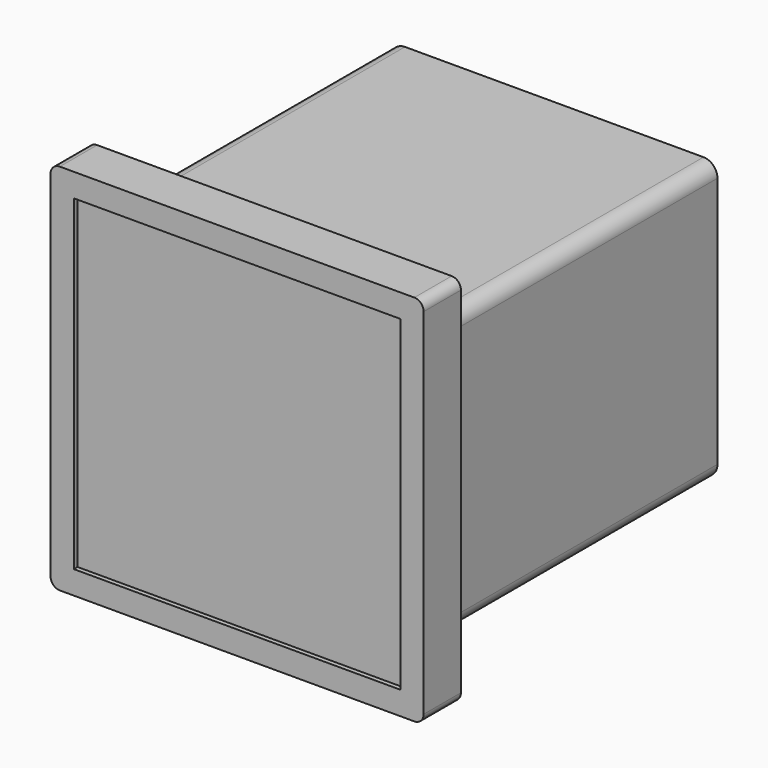
from build123d import *

# Parameters (mm, degrees)
F0_W     = 80
F0_H     = 80
F1_DEPTH = 10
F2_R     = 2
F3_W     = 70
F3_H     = 70
F4_DEPTH = 1
F5_W     = 70
F5_H     = 60
F6_DEPTH = 75
F7_R     = 3


with BuildPart() as f1:
    # F0 (on Front) → F1 (new body)
    with BuildSketch(Plane.XZ):
        Rectangle(F0_W, F0_H)
    extrude(amount=F1_DEPTH)

    # F2
    f2_edges = [f1.edges().sort_by_distance(p)[0] for p in [
        (-40, -5, 40),
        (40, -5, 40),
        (40, -5, -40),
        (-40, -5, -40),
    ]]
    fillet(f2_edges, radius=F2_R)

    # F3 (on face) → F4 (cut)
    with BuildSketch(Plane.XZ.offset(10)):
        Rectangle(F3_W, F3_H)
    extrude(amount=-F4_DEPTH, mode=Mode.SUBTRACT)

    # F5 (on face) → F6 (join)
    with BuildSketch(Plane(origin=(0, 0, 0), x_dir=(-1, 0, 0), z_dir=(0, 1, 0))):
        Rectangle(F5_W, F5_H)
    extrude(amount=F6_DEPTH)

    # F7
    f7_edges = [f1.edges().sort_by_distance(p)[0] for p in [
        (35, 37.5, 30),
        (-35, 37.5, 30),
        (35, 37.5, -30),
        (-35, 37.5, -30),
    ]]
    fillet(f7_edges, radius=F7_R)


solid = f1.part
